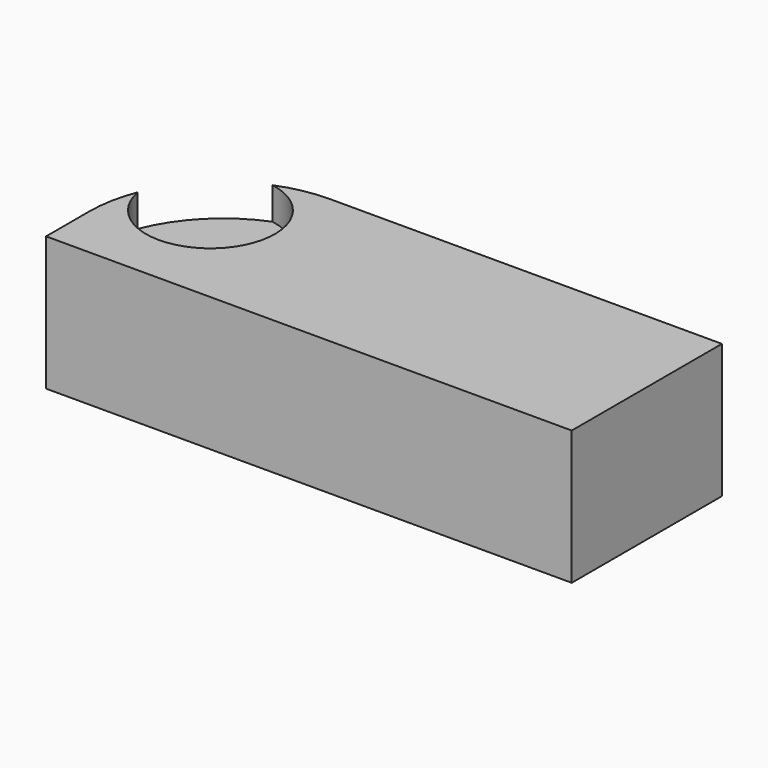
from build123d import *

# Parameters (mm, degrees)
F1_DEPTH = 25
F3_DEPTH = 6


with BuildPart() as f1:
    # F0 (on Top) → F1 (new body)
    with BuildSketch(Plane.XY):
        with BuildLine():
            Line((64.2047406882, 41.168680372), (-8.7952593118, 41.168680372))
            ThreePointArc((-8.7952593118, 41.168680372), (-26.4729288415, 33.8463499017), (-33.7952593118, 16.168680372))
            Line((-33.7952593118, 16.168680372), (-33.7952593118, 6.168680372))
            Line((-33.7952593118, 6.168680372), (64.2047406882, 6.168680372))
            Line((64.2047406882, 6.168680372), (64.2047406882, 41.168680372))
        make_face()
    extrude(amount=F1_DEPTH)

    # F2 (on face) → F3 (cut)
    with BuildSketch(Plane.XY.offset(25)):
        with BuildLine():
            ThreePointArc((-32.0526663499, 25.3389048985), (-26.5368263526, 33.7822205879), (-18.1336791483, 39.3590644774))
            ThreePointArc((-18.1336791483, 39.3590644774), (-28.7670411991, 35.9963417418), (-32.0526663499, 25.3389048985))
        make_face()
        with BuildLine():
            ThreePointArc((-32.0526663499, 25.3389048985), (-19.1404845237, 15.5710389549), (-8.2295963363, 27.5329854339))
            ThreePointArc((-8.2295963363, 27.5329854339), (-11.0326552297, 35.2457508571), (-18.1336791483, 39.3590644774))
            ThreePointArc((-18.1336791483, 39.3590644774), (-26.5368263526, 33.7822205879), (-32.0526663499, 25.3389048985))
        make_face()
    extrude(amount=-F3_DEPTH, mode=Mode.SUBTRACT)


solid = f1.part
